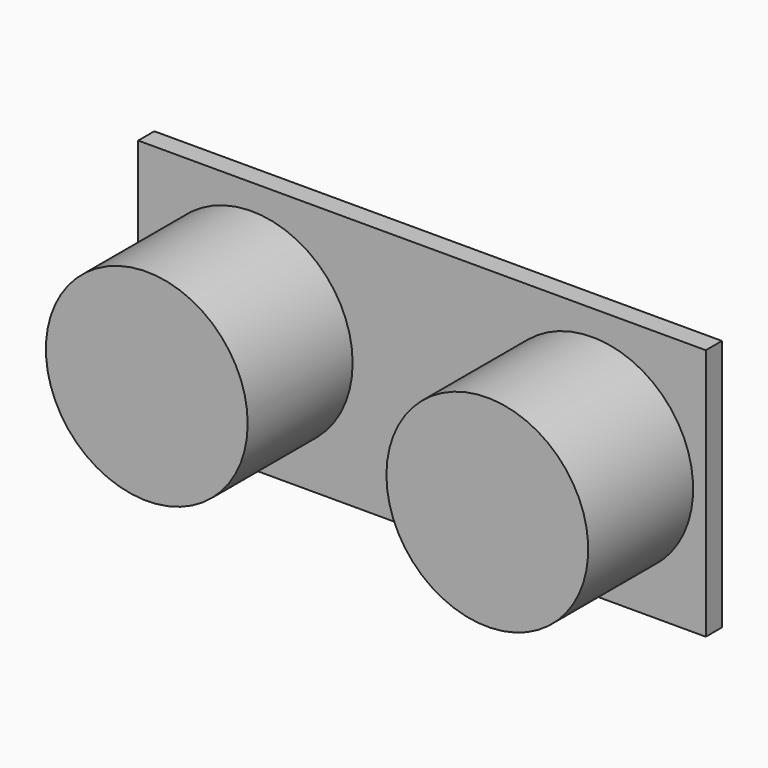
from build123d import *

# Parameters (mm, degrees)
F0_W     = 45
F0_H     = 20
F1_DEPTH = 1.6
F2_R     = 8
F3_DEPTH = 12


with BuildPart() as f1:
    # F0 (on Front) → F1 (new body)
    with BuildSketch(Plane.XZ):
        Rectangle(F0_W, F0_H)
    extrude(amount=F1_DEPTH)

    # F2 (on Front) → F3 (join)
    with BuildSketch(Plane.XZ):
        with Locations((-13.5, 0)):
            Circle(F2_R)
        with BuildLine():
            ThreePointArc((21.5, 0), (13.5, 8), (5.5, 0))
            ThreePointArc((5.5, 0), (13.5, -8), (21.5, 0))
        make_face()
    extrude(amount=F3_DEPTH)


solid = f1.part
